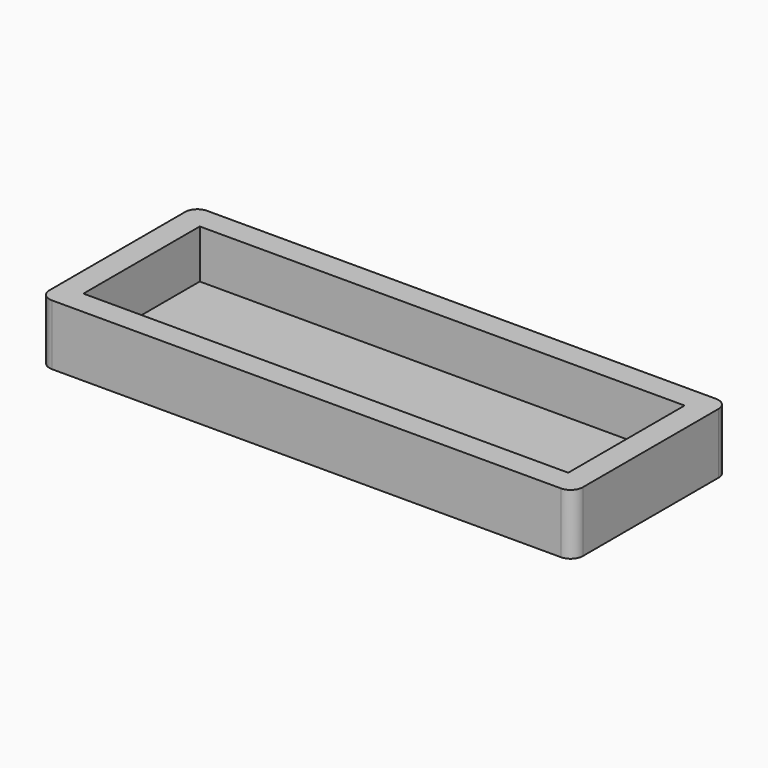
from build123d import *

# Parameters (mm, degrees)
F0_W     = 6.35
F0_H     = 6.35
F0_H_2   = 38.1
F0_W_2   = 127
F1_DEPTH = 12.7
F2_DEPTH = 3.175
F3_DEPTH = 3.175
F4_R     = 3.175


with BuildPart() as f1:
    # F0 (on Top) → F1 (new body)
    with BuildSketch(Plane.XY):
        with Locations((71.6993232399, -31.2760059339)):
            Rectangle(F0_W, F0_H)
        with Locations((-61.6506767601, -9.0510059339)):
            Rectangle(F0_W, F0_H_2)
        with Locations((-61.6506767601, 13.1739940661)):
            Rectangle(F0_W, F0_H)
        with Locations((5.0243232399, 13.1739940661)):
            Rectangle(F0_W_2, F0_H)
        with Locations((71.6993232399, -9.0510059339)):
            Rectangle(F0_W, F0_H_2)
        with Locations((71.6993232399, 13.1739940661)):
            Rectangle(F0_W, F0_H)
        with Locations((5.0243232399, -31.2760059339)):
            Rectangle(F0_W_2, F0_H)
        with Locations((-61.6506767601, -31.2760059339)):
            Rectangle(F0_W, F0_H)
    extrude(amount=F1_DEPTH)

    # F2 (add): a face of the model
    f2_faces = [f1.faces().sort_by_distance(p)[0] for p in [
        (-63.3391798714, -9.0510059339, 0),
    ]]
    extrude(f2_faces, amount=F2_DEPTH)

    # F0 (on Top) → F3 (join)
    with BuildSketch(Plane.XY):
        Polygon((68.5243232399, 9.9989940661), (-58.4756767601, 9.9989940661), (68.5243232399, -28.1010059339), align=None)
        Polygon((68.5243232399, -28.1010059339), (-58.4756767601, 9.9989940661), (-58.4756767601, -28.1010059339), align=None)
    extrude(amount=-F3_DEPTH)

    # F4
    f4_edges = [f1.edges().sort_by_distance(p)[0] for p in [
        (-64.825677, -34.451006, 4.7625),
        (-64.825677, 16.348994, 4.7625),
        (74.874323, -34.451006, 4.7625),
        (74.874323, 16.348994, 4.7625),
    ]]
    fillet(f4_edges, radius=F4_R)


solid = f1.part
